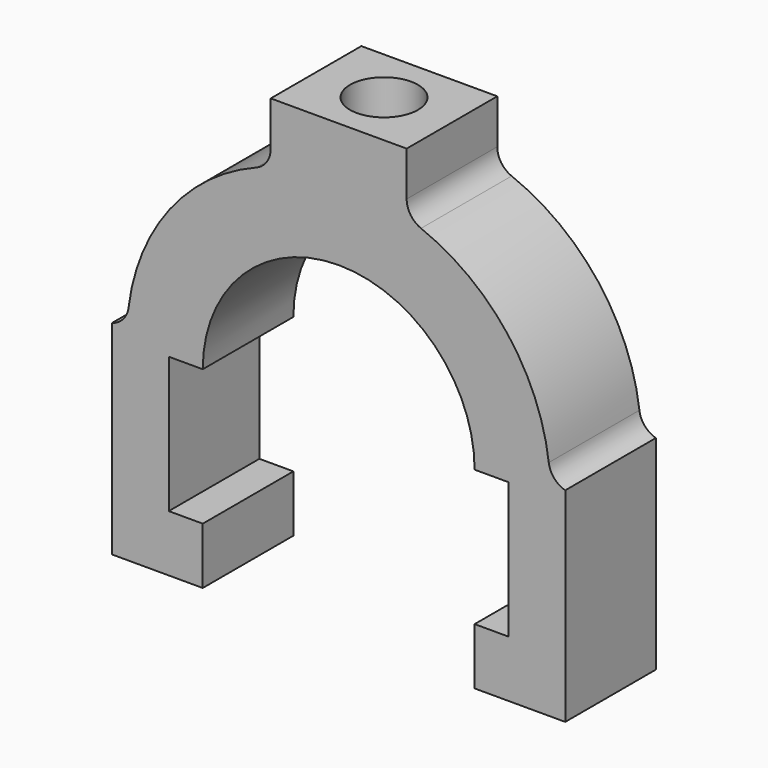
from build123d import *

# Parameters (mm, degrees)
F1_DEPTH = 20
F2_R     = 6
F3_DEPTH = 80.001


with BuildPart() as f1:
    # F0 (on Front) → F1 (new body)
    with BuildSketch(Plane.XZ):
        with BuildLine():
            Line((0, 10), (0, 0))
            Line((0, 0), (16, 0))
            Line((16, 0), (16, 36))
            ThreePointArc((16, 36), (14.035374, 37.24065), (13.091831, 39.364019))
            ThreePointArc((13.091831, 39.364019), (5.808792, 56.998732), (-9.463415, 68.434878))
            ThreePointArc((-9.463415, 68.434878), (-11.305575, 69.905198), (-12, 72.157568))
            Line((-12, 72.157568), (-12, 80))
            Line((-12, 80), (-24, 80))
            Line((-24, 80), (-36, 80))
            Line((-36, 80), (-36, 72.157568))
            ThreePointArc((-36, 72.157568), (-36.694425, 69.905198), (-38.536585, 68.434878))
            ThreePointArc((-38.536585, 68.434878), (-53.808792, 56.998732), (-61.091831, 39.364019))
            ThreePointArc((-61.091831, 39.364019), (-62.035374, 37.24065), (-64, 36))
            Line((-64, 36), (-64, 0))
            Line((-64, 0), (-48, 0))
            Line((-48, 0), (-48, 10))
            Line((-48, 10), (-54, 10))
            Line((-54, 10), (-54, 34))
            Line((-54, 34), (-48, 34))
            ThreePointArc((-48, 34), (-40.970563, 50.970563), (-24, 58))
            ThreePointArc((-24, 58), (-7.029437, 50.970563), (0, 34))
            Line((0, 34), (6, 34))
            Line((6, 34), (6, 10))
            Line((6, 10), (0, 10))
        make_face()
    extrude(amount=F1_DEPTH)

    # F2 (on face) → F3 (cut, through all)
    with BuildSketch(Plane.XY.offset(80)):
        with Locations((-24, -10.000002)):
            Circle(F2_R)
    extrude(amount=-F3_DEPTH, mode=Mode.SUBTRACT)


solid = f1.part
